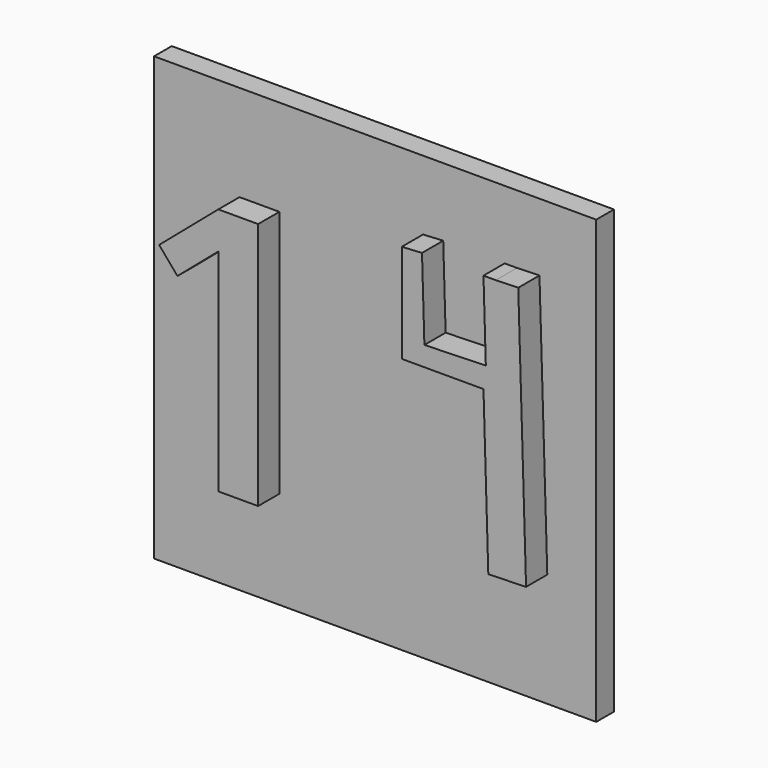
from build123d import *

# Parameters (mm, degrees)
F0_W     = 25.4
F0_H     = 25.4
F1_DEPTH = 1.27
F3_DEPTH = 1.524
F4_DEPTH = 1.524
F5_W     = 2.286
F5_H     = 1.560336
F6_DEPTH = 1.524


with BuildPart() as f1:
    # F0 (on Front) → F1 (new body)
    with BuildSketch(Plane.XZ):
        Rectangle(F0_W, F0_H)
    extrude(amount=F1_DEPTH)

    # F2 (on face) → F3 (join)
    with BuildSketch(Plane.XZ.offset(1.27)):
        Polygon((-10.138285, 3.041435), (-7.790129, 5.044031), (-7.790129, 7.174698), (-11.190262, 4.274936), align=None)
        Polygon((-7.790129, 5.044031), (-7.790129, -5.525302), (-5.504129, -5.525302), (-5.504129, 7.174698), (-7.790129, 7.174698), align=None)
    extrude(amount=F3_DEPTH)

    # F2 (on face) → F4 (join)
    with BuildSketch(Plane.XZ.offset(1.27)):
        Polygon((-7.790129, 5.044031), (-7.790129, -5.525302), (-5.504129, -5.525302), (-5.504129, 7.174698), (-7.790129, 7.174698), align=None)
        Polygon((-10.138285, 3.041435), (-7.790129, 5.044031), (-7.790129, 7.174698), (-11.190262, 4.274936), align=None)
        Polygon((3.909726, 8.777335), (2.750006, 8.712334), (2.750006, 3.041435), (7.441319, 3.041435), (7.719035, -6.231733), (9.88784, -6.166781), (9.439128, 8.816055), (8.14623, 8.777335), (7.441319, 8.777335), (7.543693, 5.358965), (7.576158, 4.274936), (4.04773, 4.169265), align=None)
    extrude(amount=F4_DEPTH)

    # F5 (on face) → F6 (join)
    with BuildSketch(Plane.XZ.offset(1.27)):
        with Locations((-6.647129, -6.30547)):
            Rectangle(F5_W, F5_H)
    extrude(amount=F6_DEPTH)


solid = f1.part
